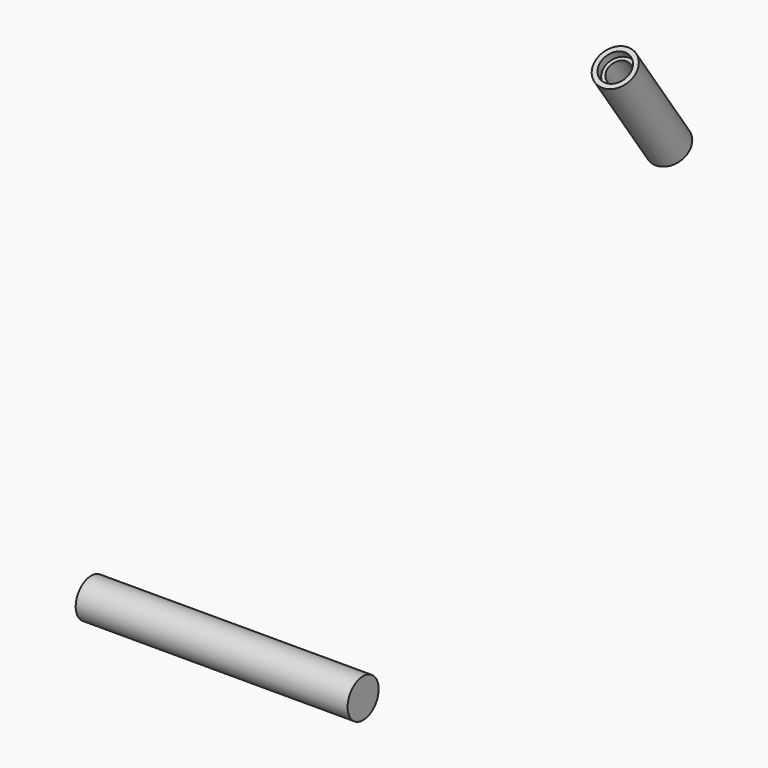
from build123d import *

# Parameters (mm, degrees)
F2_DEPTH = 177.8


with BuildPart() as f1:
    # F0 (on Right) → F1 (revolve)
    with BuildSketch(Plane.YZ):
        Polygon((743.032127, 300.161978), (655.619078, 425.000749), (650.417463, 421.358539), (656.433847, 412.766252), (652.792716, 410.216705), (728.277148, 302.413763), (731.918279, 304.96331), (737.830512, 296.519767), align=None)
    revolve(axis=Axis((0, 678.211799, 347.797319), (0, -0.573576, 0.819152)))


with BuildPart() as f2:
    # F0 (on Right) → F2 (new body, symmetric)
    with BuildSketch(Plane.YZ):
        with BuildLine():
            ThreePointArc((-25.4, 0), (0, -25.4), (25.4, 0))
            Line((25.4, 0), (-25.4, 0))
        make_face()
        with BuildLine():
            Line((-25.4, 0), (25.4, 0))
            ThreePointArc((25.4, 0), (0, 25.4), (-25.4, 0))
        make_face()
    extrude(amount=F2_DEPTH, both=True)


solid = Compound([f1.part, f2.part])
